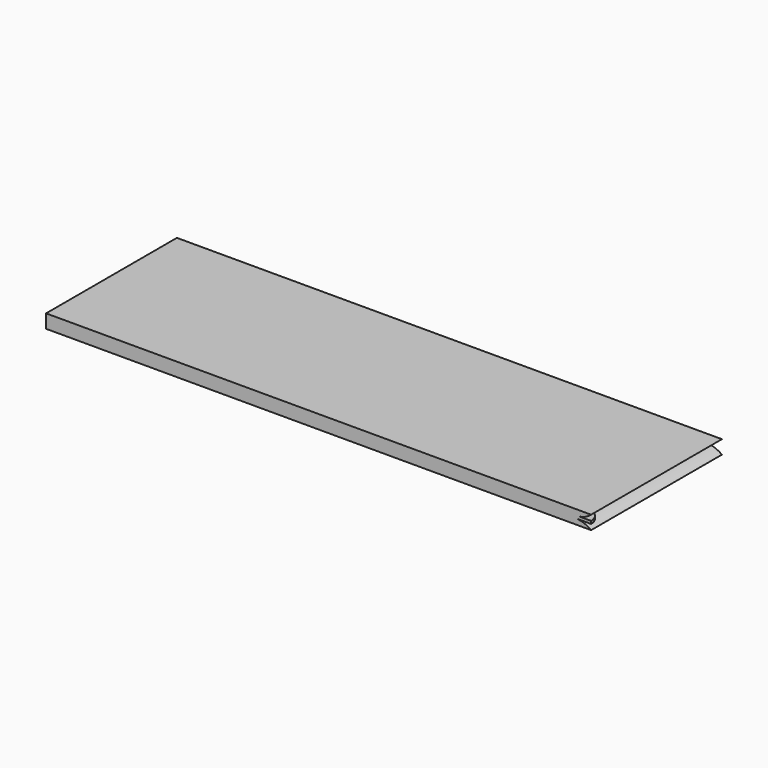
from build123d import *

# Parameters (mm, degrees)
F0_W     = 1000
F0_H     = 300
F1_DEPTH = 25
F2_W     = 275
F2_H     = 5
F3_DEPTH = 1000.001
F5_DEPTH = 300.001
F7_DEPTH = 300.001
F9_DEPTH = 5


with BuildPart() as f1:
    # F0 (on Top) → F1 (new body)
    with BuildSketch(Plane.XY):
        with Locations((514.9225434339, 4.54775244)):
            Rectangle(F0_W, F0_H)
    extrude(amount=F1_DEPTH)

    # F2 (on face) → F3 (cut, through all)
    with BuildSketch(Plane.YZ.offset(1014.9225434339)):
        with Locations((17.04775244, 12.5)):
            Rectangle(F2_W, F2_H)
    extrude(amount=-F3_DEPTH, mode=Mode.SUBTRACT)

    # F4 (on face) → F5 (cut, through all)
    with BuildSketch(Plane(origin=(0, 154.54775244, 0), x_dir=(-1, 0, 0), z_dir=(0, 1, 0))):
        with BuildLine():
            ThreePointArc((-992.1274558663, 15), (-1004.3292812217, 18.1666331145), (-1014.9225434339, 25))
            Line((-1014.9225434339, 25), (-1014.9225434339, 15))
            Line((-1014.9225434339, 15), (-992.1274558663, 15))
        make_face()
    extrude(amount=-F5_DEPTH, mode=Mode.SUBTRACT)

    # F6 (on face) → F7 (cut, through all)
    with BuildSketch(Plane(origin=(0, 154.54775244, 0), x_dir=(-1, 0, 0), z_dir=(0, 1, 0))):
        with BuildLine():
            ThreePointArc((-1014.9225434339, 0), (-1002.414847544, 6.8277253985), (-988.5225128069, 10))
            Line((-988.5225128069, 10), (-1014.9225434339, 10))
            Line((-1014.9225434339, 10), (-1014.9225434339, 0))
        make_face()
    extrude(amount=-F7_DEPTH, mode=Mode.SUBTRACT)

    # F8 (on face) → F9 (cut)
    with BuildSketch(Plane.XY.offset(15)):
        with BuildLine():
            ThreePointArc((992.1274558663, -120.45224756), (1008.3682439808, -128.5361604148), (1014.9225434339, -145.45224756))
            Line((1014.9225434339, -145.45224756), (1014.9225434339, -120.45224756))
            Line((1014.9225434339, -120.45224756), (992.1274558663, -120.45224756))
        make_face()
    extrude(amount=-F9_DEPTH, mode=Mode.SUBTRACT)


solid = f1.part
